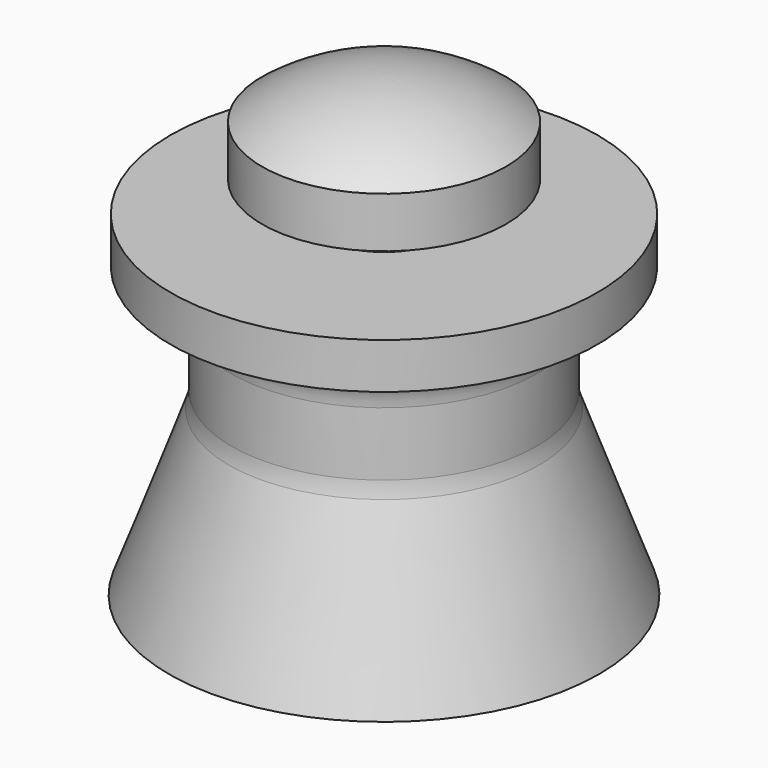
from build123d import *

# Parameters (mm, degrees)
F2_R = 4.7625


with BuildPart() as f1:
    # F0 (on Front) → F1 (revolve)
    with BuildSketch(Plane.XZ):
        with BuildLine():
            Line((0, 47.625), (0, 0))
            Line((0, 0), (3.175, 0))
            Line((3.175, 0), (11.1125, 2.889014))
            Line((11.1125, 2.889014), (11.1125, 4.7625))
            Line((11.1125, 4.7625), (6.35, 4.7625))
            Line((6.35, 4.7625), (6.35, 38.1))
            Line((6.35, 38.1), (12.7, 38.1))
            Line((12.7, 38.1), (12.7, 43.37038))
            ThreePointArc((12.7, 43.37038), (6.696861, 46.533067), (0, 47.625))
        make_face()
        Polygon((-15.875, 17.926123), (-22.399575, 0), (-19.020811, 0), (-11.509375, 20.6375), (-11.509375, 25.4), (-6.746875, 25.4), (-6.746875, 34.925), (-22.225, 34.925), (-22.225, 30.1625), (-15.875, 30.1625), align=None)
    revolve(axis=Axis((0, 0, -7.775913), (0, 0, -1)))

    # F2
    f2_edges = [f1.edges().sort_by_distance(p)[0] for p in [
        (15.875, 0, 30.1625),
        (15.875, 0, 17.926123),
    ]]
    fillet(f2_edges, radius=F2_R)


solid = f1.part
